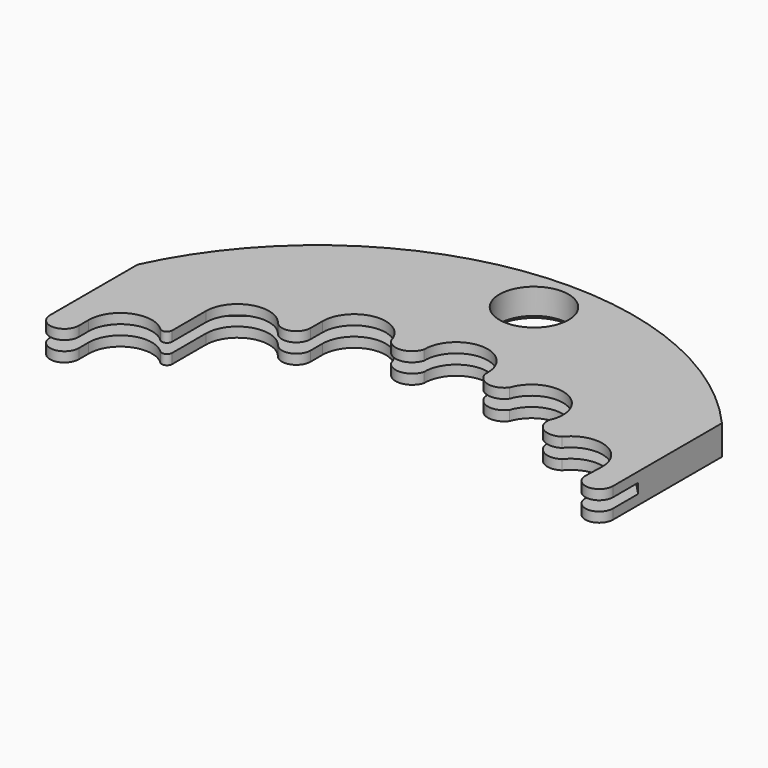
from build123d import *

# Parameters (mm, degrees)
F0_R     = 1.75
F1_DEPTH = 0.75
F2_SIZE  = 0.2
F3_R     = 16
F4_DEPTH = 0.25


with BuildPart() as f1:
    # F0 (on Top) → F1 (new body, symmetric)
    with BuildSketch(Plane.XY):
        with BuildLine():
            ThreePointArc((-1.128381, 13.45276), (0.526982, 15.090801), (2.064049, 13.341278))
            ThreePointArc((2.064049, 13.341278), (2.702852, 12.715919), (3.540784, 13.027389))
            ThreePointArc((3.540784, 13.027389), (5.65656, 14.000476), (6.502558, 11.830754))
            ThreePointArc((6.502558, 11.830754), (6.88895, 11.024625), (7.782878, 11.030722))
            ThreePointArc((7.782878, 11.030722), (9.587304, 11.533468), (10.632368, 9.978942))
            Line((10.632368, 9.978942), (10.600392, 9.023412))
            ThreePointArc((10.600392, 9.023412), (11.288292, 8.300098), (12, 9))
            Line((12, 9), (12, 15.883005))
            ThreePointArc((12, 15.883005), (-2.28231, 21.136384), (-14.5, 12.063875))
            Line((-14.5, 12.063875), (-14.5, 6.525675))
            ThreePointArc((-14.5, 6.525675), (-13.774325, 5.8), (-13.048649, 6.525675))
            Line((-13.048649, 6.525675), (-13.048649, 7.15391))
            ThreePointArc((-13.048649, 7.15391), (-12.082392, 8.623049), (-10.350687, 8.317731))
            ThreePointArc((-10.350687, 8.317731), (-10.068747, 8.268022), (-9.91143, 8.507214))
            Line((-9.91143, 8.507214), (-9.91143, 10.638145))
            ThreePointArc((-9.91143, 10.638145), (-8.840816, 12.148029), (-7.061742, 11.637285))
            ThreePointArc((-7.061742, 11.637285), (-6.256381, 11.406078), (-5.771729, 12.089581))
            Line((-5.771729, 12.089581), (-5.771729, 12.839263))
            ThreePointArc((-5.771729, 12.839263), (-4.37507, 14.426289), (-2.623414, 13.242647))
            ThreePointArc((-2.623414, 13.242647), (-1.80925, 12.873485), (-1.128381, 13.45276))
        make_face()
        with Locations((0, 19)):
            Circle(F0_R, mode=Mode.SUBTRACT)
    extrude(amount=F1_DEPTH, both=True)

    # F2
    f2_edges = [f1.edges().sort_by_distance(p)[0] for p in [
        (-1.75, 19, -0.75),
    ]]
    chamfer(f2_edges, length=F2_SIZE)

    # F3 (on Top) → F4 (cut, symmetric)
    with BuildSketch(Plane.XY):
        Circle(F3_R)
    extrude(amount=F4_DEPTH, both=True, mode=Mode.SUBTRACT)


solid = f1.part
